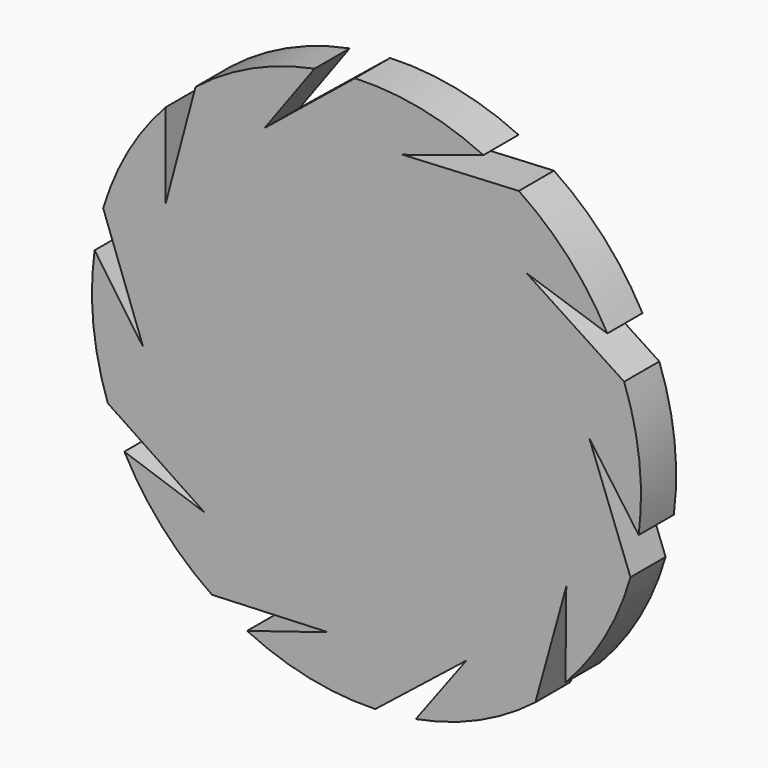
from build123d import *

# Parameters (mm, degrees)
F0_R     = 25
F1_DEPTH = 4
F3_DEPTH = 25


with BuildPart() as f1:
    # F0 (on Front) → F1 (new body)
    with BuildSketch(Plane.XZ):
        with Locations((3.8093454119, 0)):
            Circle(F0_R)
    extrude(amount=F1_DEPTH)

    # F2 (on face) → F3 (cut)
    with BuildSketch(Plane.XZ.offset(4)):
        with BuildLine():
            ThreePointArc((-11.7582220598, 19.5614632125), (-13.1639870123, 18.354998949), (-14.4765553037, 17.0477516118))
            Line((-14.4765553037, 17.0477516118), (-14.4765553037, 9.326151153))
            Line((-14.4765553037, 9.326151153), (-11.7582220598, 19.5614632125))
        make_face()
        with BuildLine():
            ThreePointArc((2.7612951022, 24.9780221504), (0.9145785092, 24.8318409422), (-0.9162435852, 24.5493138118))
            Line((-0.9162435852, 24.5493138118), (-5.4669922591, 18.3112211424))
            Line((-5.4669922591, 18.3112211424), (2.7612951022, 24.9780221504))
        make_face()
        with BuildLine():
            ThreePointArc((17.6835243201, 20.7968064765), (16.1054546899, 21.7670782749), (14.4598699542, 22.6178320573))
            Line((14.4598699542, 22.6178320573), (7.106992246, 20.2602266935))
            Line((7.106992246, 20.2602266935), (17.6835243201, 20.7968064765))
        make_face()
        with BuildLine():
            ThreePointArc((27.2746171782, 8.6244432247), (26.5715658455, 10.338342272), (25.7435324005, 11.9954758618))
            Line((25.7435324005, 11.9954758618), (18.4138599684, 14.4242647952))
            Line((18.4138599684, 14.4242647952), (27.2746171782, 8.6244432247))
        make_face()
        with BuildLine():
            ThreePointArc((27.8492079184, -6.8618518398), (28.2913215022, -5.0628891666), (28.5990101913, -3.2361273346))
            Line((28.5990101913, -3.2361273346), (24.1089607469, 3.0457967044))
            Line((24.1089607469, 3.0457967044), (27.8492079184, -6.8618518398))
        make_face()
        with BuildLine():
            Line((22.0039590385, -9.5030150632), (19.1865107481, -19.7114886861))
            ThreePointArc((19.1865107481, -19.7114886861), (20.603907642, -18.5187116048), (21.9290894609, -17.2242525411))
            Line((21.9290894609, -17.2242525411), (22.0039590385, -9.5030150632))
        make_face()
        with BuildLine():
            Line((12.9076991878, -18.4003048584), (4.6151565122, -24.9870099946))
            ThreePointArc((4.6151565122, -24.9870099946), (6.4632036846, -24.8587416469), (8.2966791322, -24.5939796715))
            Line((8.2966791322, -24.5939796715), (12.9076991878, -18.4003048584))
        make_face()
        with BuildLine():
            Line((0.3154079719, -20.2272999058), (-10.2658296583, -20.661303123))
            ThreePointArc((-10.2658296583, -20.661303123), (-8.6972420842, -21.6468304655), (-7.0599837172, -22.5135000452))
            Line((-7.0599837172, -22.5135000452), (0.3154079719, -20.2272999058))
        make_face()
        with BuildLine():
            Line((-10.934342035, -14.2819795819), (-19.7384469382, -8.3965156722))
            ThreePointArc((-19.7384469382, -8.3965156722), (-19.0520468287, -10.1171510229), (-18.2401200772, -11.7822354264))
            Line((-18.2401200772, -11.7822354264), (-10.934342035, -14.2819795819))
        make_face()
        with BuildLine():
            Line((-16.5188480842, -2.8488259856), (-20.1628536664, 7.0946227067))
            ThreePointArc((-20.1628536664, 7.0946227067), (-20.6223894281, 5.3000313871), (-20.9477761583, 3.4763388154))
            Line((-20.9477761583, 3.4763388154), (-16.5188480842, -2.8488259856))
        make_face()
    extrude(amount=-F3_DEPTH, mode=Mode.SUBTRACT)


solid = f1.part
